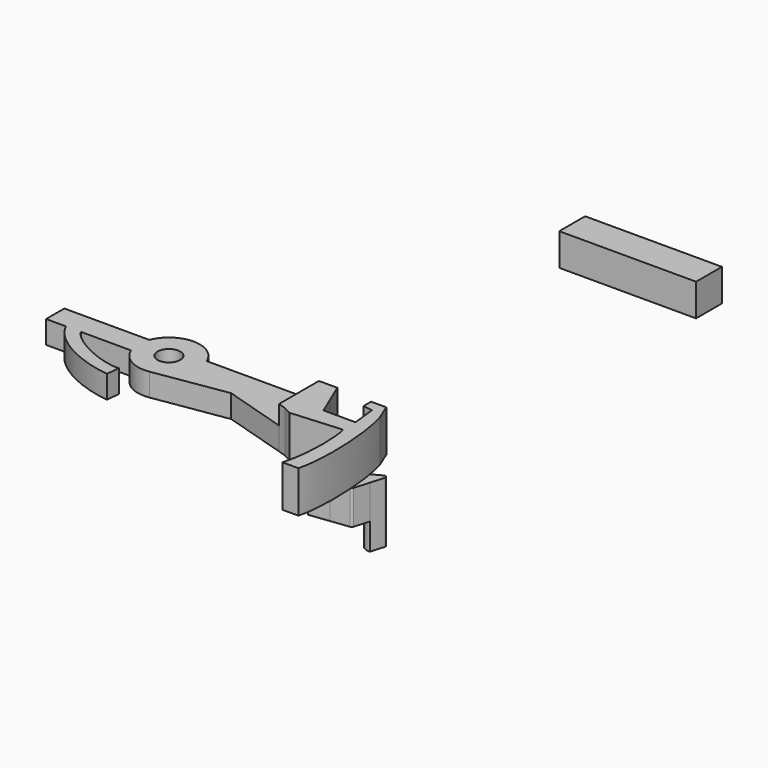
from build123d import *

# Parameters (mm, degrees)
F0_R     = 0.762
F1_DEPTH = 1.524
F2_DEPTH = 2.794
F3_DEPTH = 2.032
F4_DEPTH = 2.286
F5_DEPTH = 2.032
F6_DEPTH = 6.096
F7_DEPTH = 2.032
F8_W     = 9.144
F8_H     = 2.159
F9_DEPTH = 2.159


with BuildPart() as f1:
    # F0 (on Top) → F1 (new body)
    with BuildSketch(Plane.XY):
        with BuildLine():
            Line((-52.9059080714, 1.1804393729), (-52.9059080714, -0.3435606271))
            Line((-52.9059080714, -0.3435606271), (-51.582429558, -0.3435606271))
            add(Edge.make_bspline(
                [(-51.582429558, -0.3435606271), (-50.8640110493, -1.8478401471), (-48.5522598028, -2.9866045807), (-46.5541519225, -3.1886603683)],
                knots=[0, 0, 0, 0, 5.777384228, 5.777384228, 5.777384228, 5.777384228], degree=3))
            Line((-46.5541519225, -3.1886603683), (-46.4681722224, -2.3193887901))
            add(Edge.make_bspline(
                [(-50.5721531808, -0.3435606271), (-50.1904897392, -1.1294196593), (-47.9274615645, -2.3642899469), (-46.4681722224, -2.3193887901)],
                knots=[0, 0, 0, 0, 4.5548388157, 4.5548388157, 4.5548388157, 4.5548388157], degree=3))
            Line((-50.5721531808, -0.3435606271), (-47.2289341032, -0.3435606271))
            ThreePointArc((-47.2289341032, -0.3435606271), (-46.3325161766, -1.3755073899), (-44.9879067227, -1.6214842931))
            Line((-44.9879067227, -1.6214842931), (-40.1243688013, -0.8546638176))
            Line((-40.1243688013, -0.8546638176), (-35.8917377889, -2.1498848777))
            Line((-35.8917377889, -2.1498848777), (-35.8917377889, 1.1804393729))
            Line((-35.8917377889, 1.1804393729), (-43.3901375056, 1.1804393729))
            ThreePointArc((-43.3901375056, 1.1804393729), (-45.3095358044, 2.4835625725), (-47.2289341032, 1.1804393729))
            Line((-47.2289341032, 1.1804393729), (-52.9059080714, 1.1804393729))
        make_face()
        with Locations((-45.3095358044, 0.4184393729)):
            Circle(F0_R, mode=Mode.SUBTRACT)
    extrude(amount=F1_DEPTH)

    # F0 (on Top) → F2 (join)
    with BuildSketch(Plane.XY):
        Polygon((-34.0913433825, -0.1597238928), (-34.5840068127, 1.0043503495), (-35.6301553547, 0.4432875139), (-35.4101397097, -0.3167598043), align=None)
        with BuildLine():
            Line((-34.6585318036, 1.1804393729), (-35.8917377889, 1.1804393729))
            Line((-35.8917377889, 1.1804393729), (-35.8917377889, -2.1498848777))
            Line((-35.8917377889, -2.1498848777), (-35.3784411206, -2.3069580204))
            Line((-35.3784411206, -2.3069580204), (-34.8295137185, -2.5856126798))
            Line((-34.8295137185, -2.5856126798), (-31.4794085818, -2.3337935331))
            add(Edge.make_bspline(
                [(-31.6321253777, -7.1895001456), (-31.1125088483, -5.4274534341), (-31.2449969351, -2.838549437), (-31.4794085818, -2.3337935331)],
                knots=[0, 0, 0, 0, 4.8581075664, 4.8581075664, 4.8581075664, 4.8581075664], degree=3))
            Line((-31.6321253777, -7.1895001456), (-30.5641852319, -7.1895001456))
            add(Edge.make_bspline(
                [(-30.85613437, 0), (-30.3239002824, -1.6103395028), (-30.0836134702, -5.3473527078), (-30.5641852319, -7.1895001456)],
                knots=[0, 0, 0, 0, 7.1954253969, 7.1954253969, 7.1954253969, 7.1954253969], degree=3))
            Line((-30.85613437, 0), (-31.2861613929, 1.0513478192))
            Line((-31.2861613929, 1.0513478192), (-32.3019280619, 1.0513478192))
            Line((-32.3019280619, 1.0513478192), (-32.3019280619, 0.4340257832))
            Line((-32.3019280619, 0.4340257832), (-31.661439687, 0.3159865737))
            Line((-31.661439687, 0.3159865737), (-31.4816348255, -1.272317837))
            Line((-31.4816348255, -1.272317837), (-33.6214109845, -1.2700888328))
            Line((-33.6214109845, -1.2700888328), (-34.0913433825, -0.1597238928))
            Line((-34.0913433825, -0.1597238928), (-35.4101397097, -0.3167598043))
            Line((-35.4101397097, -0.3167598043), (-35.6301553547, 0.4432875139))
            Line((-35.6301553547, 0.4432875139), (-34.5840068127, 1.0043503495))
            Line((-34.5840068127, 1.0043503495), (-34.6585318036, 1.1804393729))
        make_face()
        with BuildLine():
            add(Edge.make_bspline(
                [(-31.1293303967, -4.5481100678), (-31.1246114303, -4.5548154266), (-31.118311582, -4.5504629332), (-31.1125088483, -4.5481100678)],
                knots=[0.9334682043, 0.9334682043, 0.9334682043, 0.9334682043, 1, 1, 1, 1], degree=3))
            Line((-31.1293303967, -4.5481100678), (-31.1125088483, -4.5481100678))
        make_face(mode=Mode.SUBTRACT)
    extrude(amount=F2_DEPTH)

    # F0 (on Top) → F3 (join)
    with BuildSketch(Plane.XY):
        Polygon((-34.0913433825, -0.1597238928), (-34.5840068127, 1.0043503495), (-35.6301553547, 0.4432875139), (-35.4101397097, -0.3167598043), align=None)
        with BuildLine():
            Line((-33.2091721971, 1.7416917279), (-34.5840068127, 1.0043503495))
            Line((-34.5840068127, 1.0043503495), (-34.0913433825, -0.1597238928))
            Line((-34.0913433825, -0.1597238928), (-32.8661898483, -0.013838514))
            ThreePointArc((-32.8661898483, -0.013838514), (-32.7725794729, 0.0268024284), (-32.716734131, 0.1122183892))
            Line((-32.716734131, 0.1122183892), (-32.4239792458, 1.1005867628))
            ThreePointArc((-32.4239792458, 1.1005867628), (-32.9386409699, 1.2716398998), (-33.2091721971, 1.7416917279))
        make_face()
        with BuildLine():
            Line((-32.3694203779, 2.1920613628), (-33.2091721971, 1.7416917279))
            ThreePointArc((-33.2091721971, 1.7416917279), (-32.9386409699, 1.2716398998), (-32.4239792458, 1.1005867628))
            Line((-32.4239792458, 1.1005867628), (-32.1528931797, 2.015799139))
            ThreePointArc((-32.1528931797, 2.015799139), (-32.2024336622, 2.1760679537), (-32.3694203779, 2.1920613628))
        make_face()
    extrude(amount=-F3_DEPTH)

    # F4 (add): a face of the model
    f4_faces = [f1.faces().sort_by_distance(p)[0] for p in [
        (-33.7411845506, 0.7238933588, -2.032),
    ]]
    extrude(f4_faces, amount=F4_DEPTH)

    # F0 (on Top) → F5 (cut)
    with BuildSketch(Plane.XY):
        with BuildLine():
            Line((-33.2091721971, 1.7416917279), (-34.5840068127, 1.0043503495))
            Line((-34.5840068127, 1.0043503495), (-34.0913433825, -0.1597238928))
            Line((-34.0913433825, -0.1597238928), (-32.8661898483, -0.013838514))
            ThreePointArc((-32.8661898483, -0.013838514), (-32.7725794729, 0.0268024284), (-32.716734131, 0.1122183892))
            Line((-32.716734131, 0.1122183892), (-32.4239792458, 1.1005867628))
            ThreePointArc((-32.4239792458, 1.1005867628), (-32.9386409699, 1.2716398998), (-33.2091721971, 1.7416917279))
        make_face()
        with BuildLine():
            Line((-32.3694203779, 2.1920613628), (-33.2091721971, 1.7416917279))
            ThreePointArc((-33.2091721971, 1.7416917279), (-32.9386409699, 1.2716398998), (-32.4239792458, 1.1005867628))
            Line((-32.4239792458, 1.1005867628), (-32.1528931797, 2.015799139))
            ThreePointArc((-32.1528931797, 2.015799139), (-32.2024336622, 2.1760679537), (-32.3694203779, 2.1920613628))
        make_face()
    extrude(amount=-F5_DEPTH, mode=Mode.SUBTRACT)

    # F0 (on Top) → F6 (join)
    with BuildSketch(Plane.XY):
        with BuildLine():
            Line((-32.3694203779, 2.1920613628), (-33.2091721971, 1.7416917279))
            ThreePointArc((-33.2091721971, 1.7416917279), (-32.9386409699, 1.2716398998), (-32.4239792458, 1.1005867628))
            Line((-32.4239792458, 1.1005867628), (-32.1528931797, 2.015799139))
            ThreePointArc((-32.1528931797, 2.015799139), (-32.2024336622, 2.1760679537), (-32.3694203779, 2.1920613628))
        make_face()
    extrude(amount=-F6_DEPTH)

    # F0 (on Top) → F7 (cut, through all)
    with BuildSketch(Plane.XY):
        with BuildLine():
            Line((-32.3694203779, 2.1920613628), (-33.2091721971, 1.7416917279))
            ThreePointArc((-33.2091721971, 1.7416917279), (-32.9386409699, 1.2716398998), (-32.4239792458, 1.1005867628))
            Line((-32.4239792458, 1.1005867628), (-32.1528931797, 2.015799139))
            ThreePointArc((-32.1528931797, 2.015799139), (-32.2024336622, 2.1760679537), (-32.3694203779, 2.1920613628))
        make_face()
    extrude(amount=-F7_DEPTH, mode=Mode.SUBTRACT)


with BuildPart() as f9:
    # F8 (on Top) → F9 (new body)
    with BuildSketch(Plane.XY):
        with Locations((-32.8595417796, 24.2671417072)):
            Rectangle(F8_W, F8_H)
    extrude(amount=F9_DEPTH)


solid = Compound([f1.part, f9.part])
